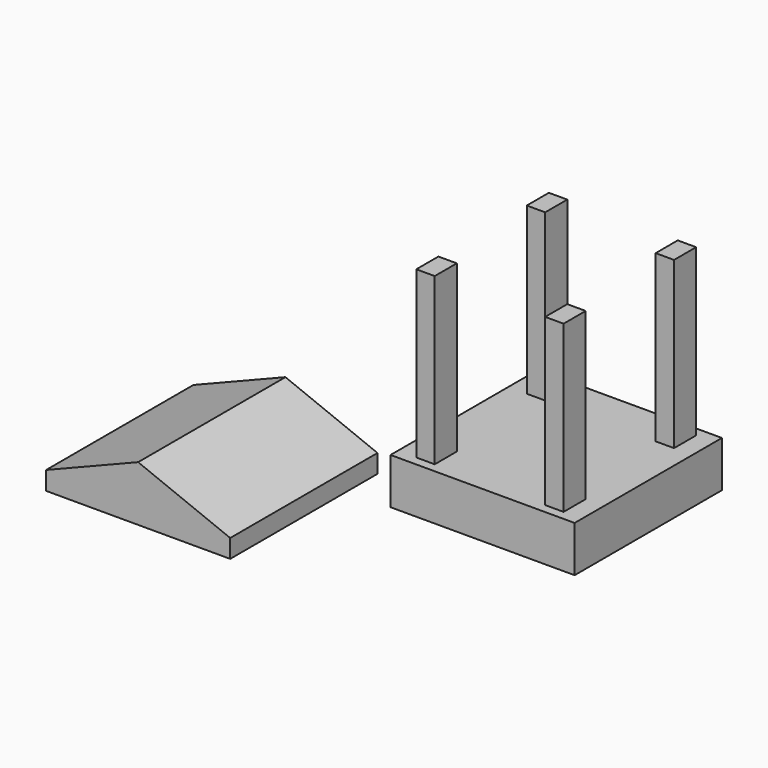
from build123d import *

# Parameters (mm, degrees)
F0_W      = 254
F0_H      = 254
F1_DEPTH  = 63.5
F2_W      = 25.4
F2_H      = 38.1
F3_DEPTH  = 50.8
F3_FACE_W = 25.4
F3_FACE_H = 38.1
F4_DEPTH  = 177.8
F5_W      = 127
F5_H      = 25.4
F6_DEPTH  = 254


with BuildPart() as f1:
    # F0 (on Top) → F1 (new body)
    with BuildSketch(Plane.XY):
        with Locations((63.368681, 75.037781)):
            Rectangle(F0_W, F0_H)
    extrude(amount=F1_DEPTH)

    # F2 (on face) → F3 (join)
    with BuildSketch(Plane.XY.offset(63.5)):
        with Locations((-25.531319, 170.287781)):
            Rectangle(F2_W, F2_H)
        with Locations((-25.531319, -20.212219)):
            Rectangle(F2_W, F2_H)
        with Locations((152.268681, -20.212219)):
            Rectangle(F2_W, F2_H)
        with Locations((152.268681, 170.287781)):
            Rectangle(F2_W, F2_H)
    extrude(amount=F3_DEPTH)

    # F3_face (on face) → F4 (join)
    with BuildSketch(Plane(origin=(-25.531319, -20.212219, 114.3), x_dir=(1, 0, 0), z_dir=(0, 0, 1))):
        Rectangle(F3_FACE_W, F3_FACE_H)
        with Locations((177.8, 0)):
            Rectangle(F3_FACE_W, F3_FACE_H)
        with Locations((177.8, 190.5)):
            Rectangle(F3_FACE_W, F3_FACE_H)
        with Locations((0, 190.5)):
            Rectangle(F3_FACE_W, F3_FACE_H)
    extrude(amount=F4_DEPTH)


with BuildPart() as f6:
    # F5 (on Front) → F6 (new body)
    with BuildSketch(Plane.XZ):
        Polygon((-377.209485, 25.4), (-250.209485, 25.4), (-250.209485, 50.8), (-250.209485, 76.2), align=None)
        Polygon((-250.209485, 50.8), (-250.209485, 25.4), (-123.209485, 25.4), (-250.209485, 76.2), align=None)
        with Locations((-186.709485, 12.7)):
            Rectangle(F5_W, F5_H)
        with Locations((-313.709485, 12.7)):
            Rectangle(F5_W, F5_H)
    extrude(amount=F6_DEPTH)


solid = Compound([f1.part, f6.part])
